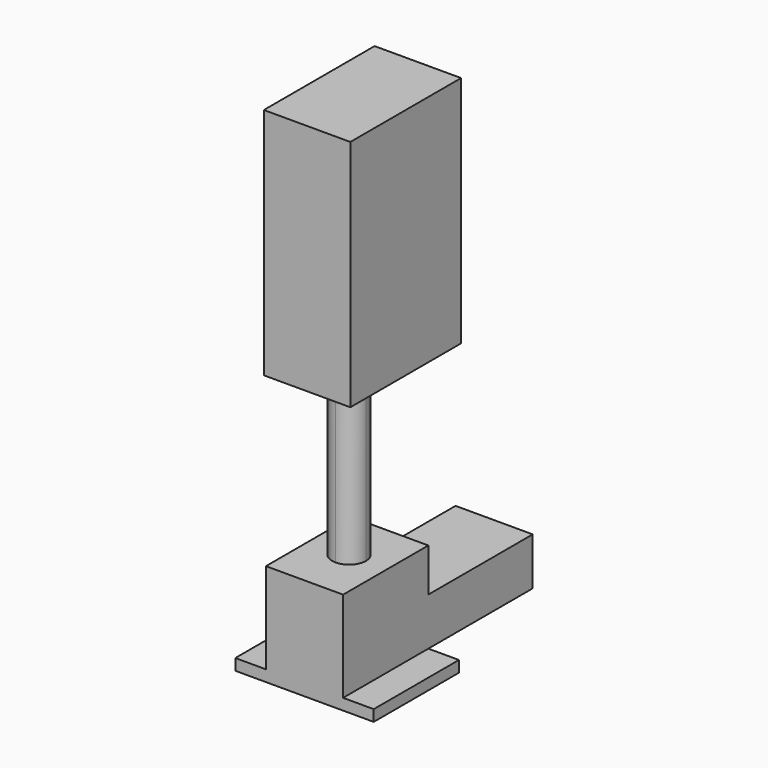
from build123d import *

# Parameters (mm, degrees)
F1_DEPTH  = 2.6
F3_DEPTH  = 11
F6_DEPTH  = 10
F9_DEPTH  = 59.18
F12_DEPTH = 54


with BuildPart() as f1:
    # F0 (on Top) → F1 (new body)
    with BuildSketch(Plane.XY):
        Polygon((-16, 0), (0, 0), (16, 0), (16, 24.63), (0, 24.63), (-16, 24.63), align=None)
    extrude(amount=-F1_DEPTH)

    # F2 (on Top) → F3 (join)
    with BuildSketch(Plane.XY):
        Polygon((-8.92, 0), (0, 0), (8.92, 0), (8.92, 54.79), (-8.92, 54.79), align=None)
    extrude(amount=F3_DEPTH)

    # F5 (on offset) → F6 (join)
    with BuildSketch(Plane.XY.offset(11)):
        Polygon((-8.92, 0), (0, 0), (8.92, 0), (8.92, 24.63), (-8.92, 24.63), align=None)
    extrude(amount=F6_DEPTH)


with BuildPart() as f9:
    # F8 (on offset) → F9 (new body)
    with BuildSketch(Plane.XY.offset(21)):
        with BuildLine():
            ThreePointArc((0, 8.97), (2.764788, 10.115212), (3.91, 12.88))
            ThreePointArc((3.91, 12.88), (-2.764788, 15.644788), (0, 8.97))
        make_face()
    extrude(amount=F9_DEPTH)

    # F11 (on offset) → F12 (join)
    with BuildSketch(Plane.XY.offset(59.18)):
        Polygon((-10, 0.748179), (0, 0.748179), (10, 0.748179), (10, 32.748179), (0, 32.748179), (-10, 32.748179), align=None)
    extrude(amount=F12_DEPTH)


solid = Compound([f1.part, f9.part])
